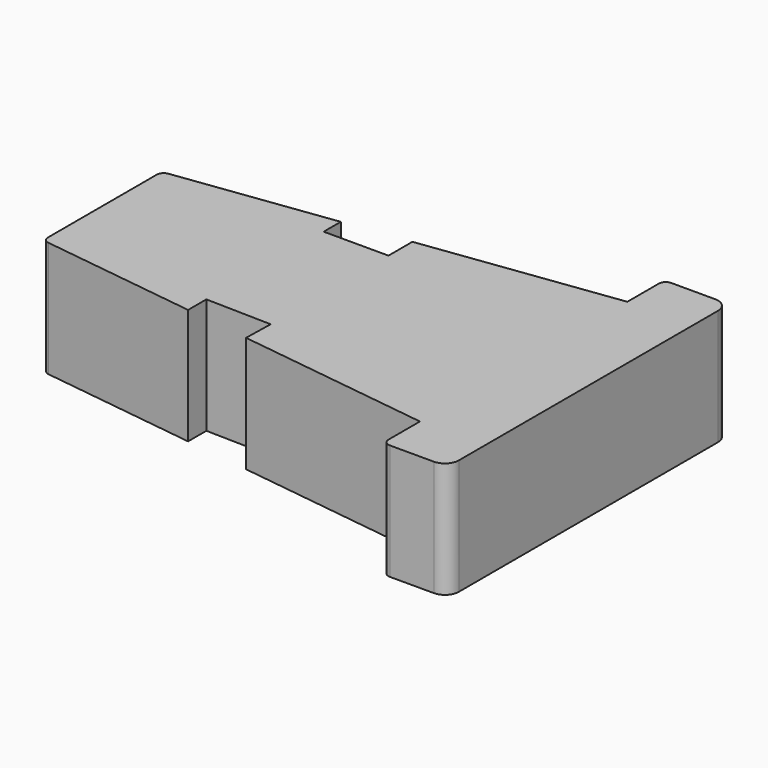
from build123d import *

# Parameters (mm, degrees)
F1_DEPTH = 25


with BuildPart() as f1:
    # F0 (on Top) → F1 (new body)
    with BuildSketch(Plane.XY):
        with BuildLine():
            Line((55.893059, -23.097751), (55.893059, 46.902249))
            ThreePointArc((55.893059, 46.902249), (55.014379, 49.02357), (52.893059, 49.902249))
            Line((52.893059, 49.902249), (43.393059, 49.902249))
            ThreePointArc((43.393059, 49.902249), (42.332399, 49.46291), (41.893059, 48.402249))
            Line((41.893059, 48.402249), (41.893059, 39.902249))
            Line((41.893059, 39.902249), (-0.106941, 34.363788))
            Line((-0.106941, 34.363788), (-0.106941, 27.902249))
            Line((-0.106941, 27.902249), (-14.106941, 27.902249))
            Line((-14.106941, 27.902249), (-14.106941, 32.517634))
            Line((-14.106941, 32.517634), (-47.803045, 28.074192))
            ThreePointArc((-47.803045, 28.074192), (-48.734805, 27.575965), (-49.106941, 26.587066))
            Line((-49.106941, 26.587066), (-49.106941, 11.902249))
            Line((-49.106941, 11.902249), (-49.106941, -2.782567))
            ThreePointArc((-49.106941, -2.782567), (-48.734805, -3.771466), (-47.803045, -4.269693))
            Line((-47.803045, -4.269693), (-14.106941, -8.713135))
            Line((-14.106941, -8.713135), (-14.106941, -3.770135))
            Line((-14.106941, -3.770135), (0.042469, -4.097287))
            Line((0.042469, -4.097287), (-0.106941, -10.559289))
            Line((-0.106941, -10.559289), (41.893059, -16.097751))
            Line((41.893059, -16.097751), (41.893059, -24.597751))
            ThreePointArc((41.893059, -24.597751), (42.332399, -25.658411), (43.393059, -26.097751))
            Line((43.393059, -26.097751), (52.893059, -26.097751))
            ThreePointArc((52.893059, -26.097751), (55.014379, -25.219071), (55.893059, -23.097751))
        make_face()
    extrude(amount=F1_DEPTH)


solid = f1.part
